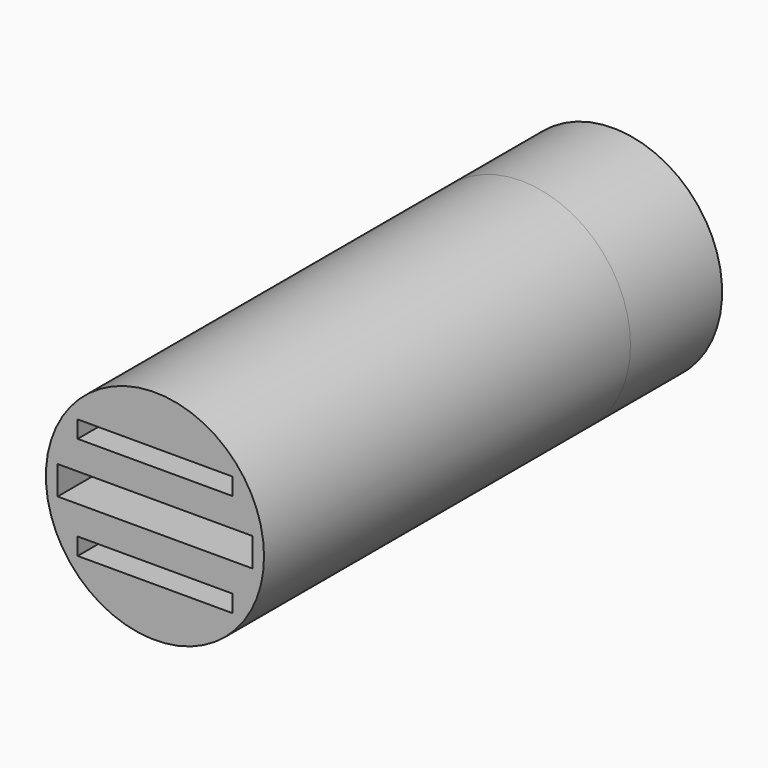
from build123d import *

# Parameters (mm, degrees)
F0_R     = 19.05
F1_DEPTH = 80
F4_R     = 19.05
F4_R_2   = 18.55
F5_DEPTH = 20
F3_W     = 27
F3_H     = 3
F6_DEPTH = 70
F8_W     = 34
F8_H     = 5
F9_DEPTH = 62


with BuildPart() as f1:
    # F0 (on Front) → F1 (new body)
    with BuildSketch(Plane.XZ):
        Circle(F0_R)
    extrude(amount=-F1_DEPTH)

    # F4 (on face) → F5 (join)
    with BuildSketch(Plane(origin=(0, 80, 0), x_dir=(-1, 0, 0), z_dir=(0, 1, 0))):
        Circle(F4_R)
        Circle(F4_R_2, mode=Mode.SUBTRACT)
    extrude(amount=F5_DEPTH)

    # F3 (on Front) → F6 (cut)
    with BuildSketch(Plane.XZ):
        with Locations((0, 9)):
            Rectangle(F3_W, F3_H)
        with Locations((0, -9)):
            Rectangle(F3_W, F3_H)
    extrude(amount=-F6_DEPTH, mode=Mode.SUBTRACT)

    # F8 (on Front) → F9 (cut)
    with BuildSketch(Plane.XZ):
        Rectangle(F8_W, F8_H)
    extrude(amount=-F9_DEPTH, mode=Mode.SUBTRACT)


solid = f1.part
